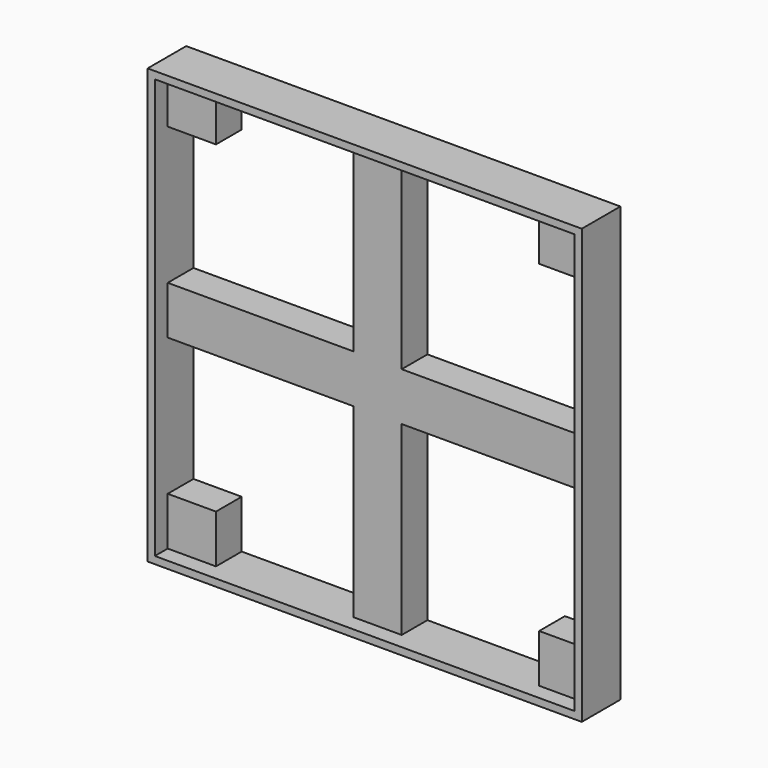
from build123d import *

# Parameters (mm, degrees)
F0_W     = 342.9
F0_H     = 342.9
F1_DEPTH = 38.1
F0_W_2   = 38.1
F0_H_2   = 146.685
F0_H_3   = 38.1
F0_W_3   = 146.685
F2_DEPTH = 25.4


with BuildPart() as f1:
    # F0 (on Front) → F1 (new body)
    with BuildSketch(Plane.XZ):
        Rectangle(F0_W, F0_H)
        Polygon((127.635, 165.735), (165.735, 165.735), (165.735, 127.635), (165.735, 19.05), (165.735, -19.05), (165.735, -127.635), (165.735, -165.735), (127.635, -165.735), (19.05, -165.735), (-19.05, -165.735), (-127.635, -165.735), (-165.735, -165.735), (-165.735, -127.635), (-165.735, -19.05), (-165.735, 19.05), (-165.735, 127.635), (-165.735, 165.735), (-127.635, 165.735), (-19.05, 165.735), (19.05, 165.735), align=None, mode=Mode.SUBTRACT)
    extrude(amount=F1_DEPTH)

    # F0 (on Front) → F2 (join)
    with BuildSketch(Plane.XZ):
        with Locations((0, 92.3925)):
            Rectangle(F0_W_2, F0_H_2)
        with Locations((146.685, -146.685)):
            Rectangle(F0_W_2, F0_H_3)
        Rectangle(F0_W_2, F0_H_3)
        with Locations((146.685, 146.685)):
            Rectangle(F0_W_2, F0_H_3)
        with Locations((-92.3925, 0)):
            Rectangle(F0_W_3, F0_H_3)
        with Locations((92.3925, 0)):
            Rectangle(F0_W_3, F0_H_3)
        with Locations((-146.685, -146.685)):
            Rectangle(F0_W_2, F0_H_3)
        with Locations((0, -92.3925)):
            Rectangle(F0_W_2, F0_H_2)
        with Locations((-146.685, 146.685)):
            Rectangle(F0_W_2, F0_H_3)
    extrude(amount=F2_DEPTH)


solid = f1.part
